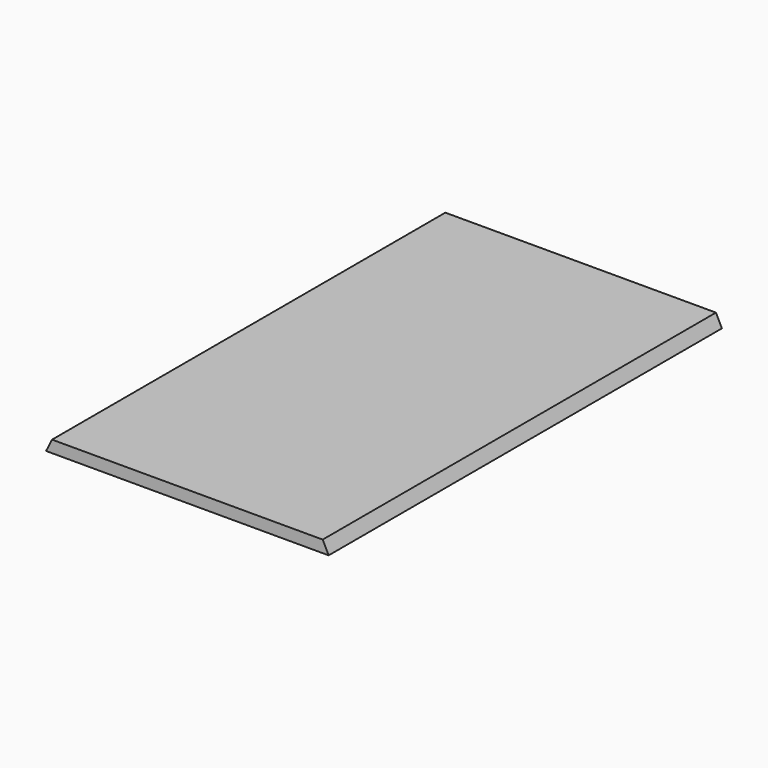
from build123d import *

# Parameters (mm, degrees)
F0_W     = 49.28
F0_H     = 2
F1_DEPTH = 82.25
F3_DEPTH = 82.25


with BuildPart() as f1:
    # F0 (on Front) → F1 (new body)
    with BuildSketch(Plane.XZ):
        Rectangle(F0_W, F0_H)
    extrude(amount=F1_DEPTH)

    # F2 (on face) → F3 (cut)
    with BuildSketch(Plane.XZ.offset(82.25)):
        Polygon((-24.64, 1), (-24.64, -1), (-23.64, -1), (-22.64, 1), align=None)
        Polygon((22.64, 1), (23.64, -1), (24.64, -1), (24.64, 1), align=None)
    extrude(amount=-F3_DEPTH, mode=Mode.SUBTRACT)


solid = f1.part
